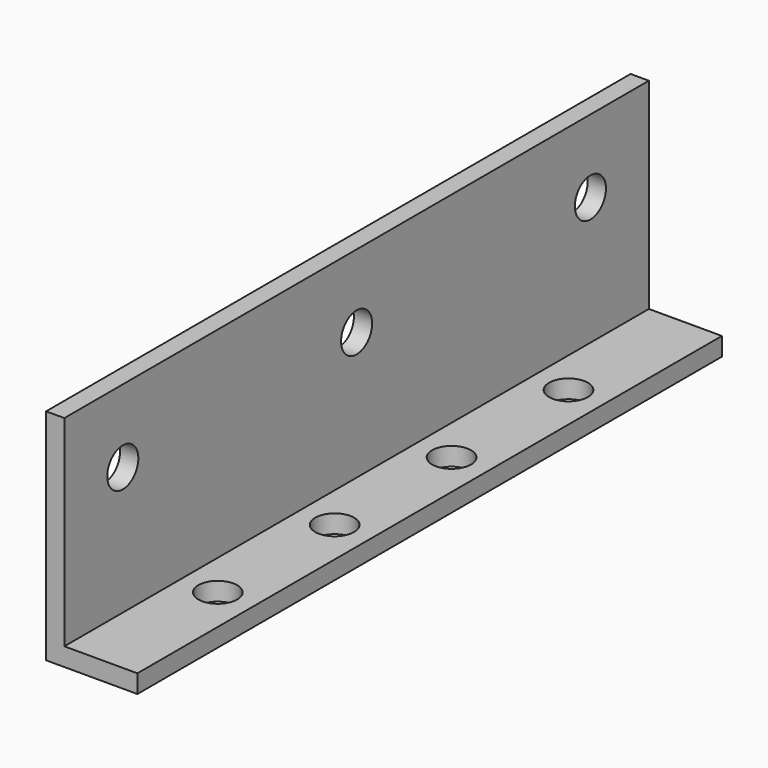
from build123d import *

# Parameters (mm, degrees)
F1_DEPTH = 127
F3_D     = 6.7564
F5_D     = 6.7564


with BuildPart() as f1:
    # F0 (on Front) → F1 (new body)
    with BuildSketch(Plane.XZ):
        Polygon((0, 38.1), (0, 0), (15.875, 0), (15.875, 3.175), (3.175, 3.175), (3.175, 38.1), align=None)
    extrude(amount=F1_DEPTH)

    # F3 (through all)
    with Locations(Plane.YZ.offset(3.175)):
        with Locations((-114.3, 25.4), (-63.5, 25.4), (-12.7, 25.4)):
            Hole(F3_D / 2)

    # F5 (through all)
    with Locations(Plane.XY.offset(3.175)):
        with Locations((9.525, -101.6), (9.525, -25.4), (9.525, -76.2), (9.525, -50.8)):
            Hole(F5_D / 2)


solid = f1.part
